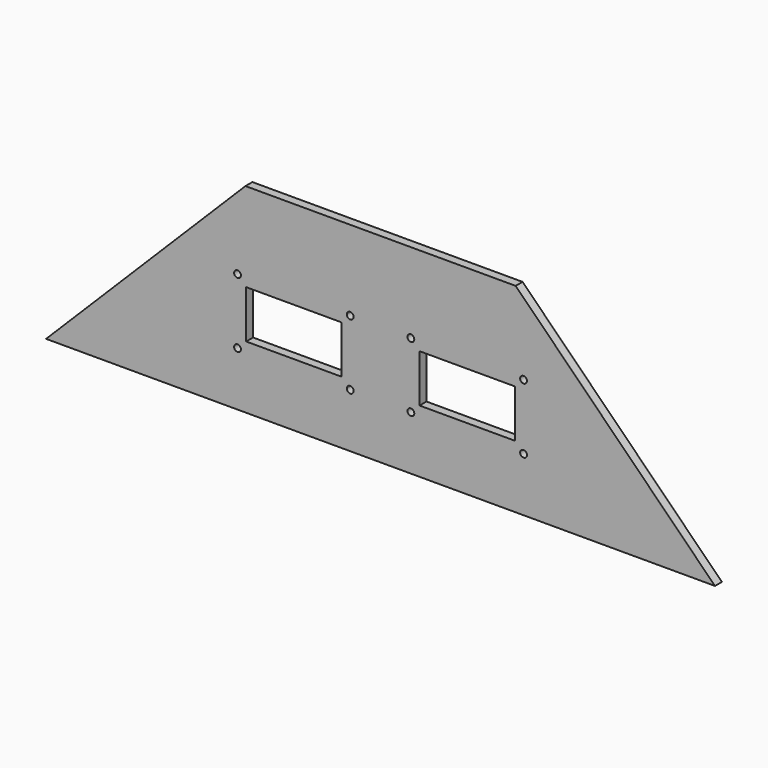
from build123d import *

# Parameters (mm, degrees)
F1_DEPTH = 3.175
F2_W     = 69.85
F2_H     = 35.052
F2_R     = 2.4892
F3_DEPTH = 6.351


with BuildPart() as f1:
    # F0 (on Front) → F1 (new body, symmetric)
    with BuildSketch(Plane.XZ):
        Polygon((98.96983, 0), (-98.96983, 0), (-245.01983, -146.05), (245.01983, -146.05), align=None)
    extrude(amount=F1_DEPTH, both=True)

    # F2 (on face) → F3 (cut, through all)
    with BuildSketch(Plane.XZ.offset(3.175)):
        with Locations((63.5, -82.55)):
            Rectangle(F2_W, F2_H)
        with Locations((104.775, -58.674)):
            Circle(F2_R)
        with Locations((22.225, -58.674)):
            Circle(F2_R)
        with Locations((22.225, -106.426)):
            Circle(F2_R)
        with Locations((104.775, -106.426)):
            Circle(F2_R)
        with BuildLine():
            ThreePointArc((-19.7358, -58.674), (-22.225, -56.1848), (-24.7142, -58.674))
            Line((-24.7142, -58.674), (-22.225, -58.674))
            Line((-22.225, -58.674), (-22.225, -61.1632))
            ThreePointArc((-22.225, -61.1632), (-20.46487, -60.43413), (-19.7358, -58.674))
        make_face()
        with BuildLine():
            Line((-22.225, -58.674), (-24.7142, -58.674))
            ThreePointArc((-24.7142, -58.674), (-23.98513, -60.43413), (-22.225, -61.1632))
            Line((-22.225, -61.1632), (-22.225, -58.674))
        make_face()
        with BuildLine():
            ThreePointArc((-19.7358, -106.426), (-20.46487, -104.66587), (-22.225, -103.9368))
            Line((-22.225, -103.9368), (-22.225, -106.426))
            Line((-22.225, -106.426), (-24.7142, -106.426))
            ThreePointArc((-24.7142, -106.426), (-22.225, -108.9152), (-19.7358, -106.426))
        make_face()
        with BuildLine():
            Line((-22.225, -106.426), (-22.225, -103.9368))
            ThreePointArc((-22.225, -103.9368), (-23.98513, -104.66587), (-24.7142, -106.426))
            Line((-24.7142, -106.426), (-22.225, -106.426))
        make_face()
        with Locations((-63.5, -82.55)):
            Rectangle(F2_W, F2_H)
        with BuildLine():
            Line((-104.775, -61.1632), (-104.775, -58.674))
            Line((-104.775, -58.674), (-102.2858, -58.674))
            ThreePointArc((-102.2858, -58.674), (-106.53513, -56.91387), (-104.775, -61.1632))
        make_face()
        with BuildLine():
            Line((-104.775, -106.426), (-104.775, -103.9368))
            ThreePointArc((-104.775, -103.9368), (-106.53513, -108.18613), (-102.2858, -106.426))
            Line((-102.2858, -106.426), (-104.775, -106.426))
        make_face()
        with BuildLine():
            ThreePointArc((-102.2858, -106.426), (-103.01487, -104.66587), (-104.775, -103.9368))
            Line((-104.775, -103.9368), (-104.775, -106.426))
            Line((-104.775, -106.426), (-102.2858, -106.426))
        make_face()
        with BuildLine():
            Line((-102.2858, -58.674), (-104.775, -58.674))
            Line((-104.775, -58.674), (-104.775, -61.1632))
            ThreePointArc((-104.775, -61.1632), (-103.01487, -60.43413), (-102.2858, -58.674))
        make_face()
    extrude(amount=-F3_DEPTH, mode=Mode.SUBTRACT)


solid = f1.part
